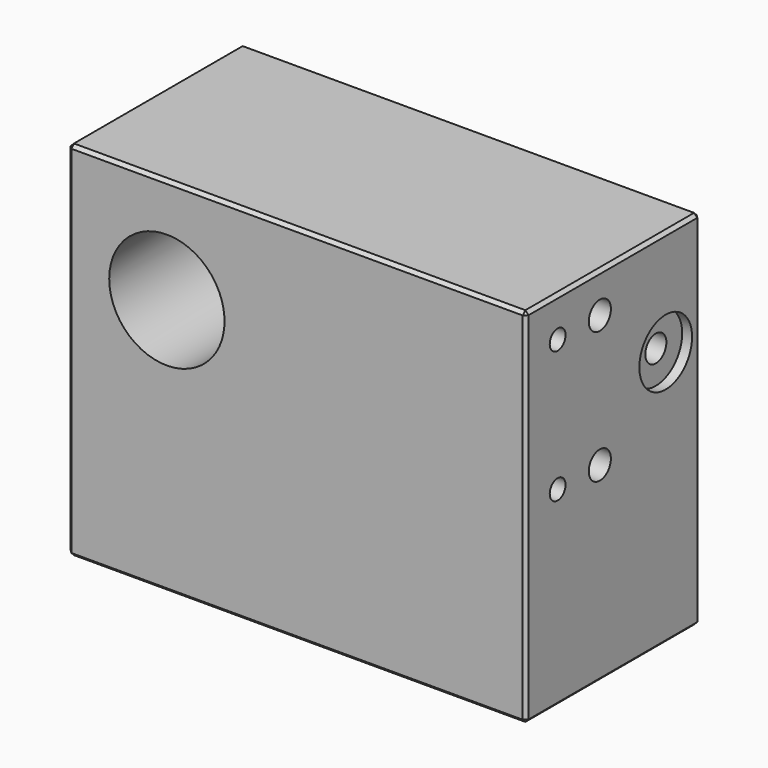
from build123d import *

# Parameters (mm, degrees)
F0_W           = 69.5
F0_H           = 55
F1_DEPTH       = 33
F2_SIZE        = 0.5
F4_D           = 17.5
F4_DEPTH       = 23
F4_TIP         = 5.2575304165
F5_D           = 15
F5_DEPTH       = 26.5
F5_TIP         = 4.5064546427
F8_D           = 4
F8_DEPTH       = 54.5
F8_CBORE_D     = 10
F8_CBORE_DEPTH = 1.5
F8_TIP         = 1.2017212381
F9_D           = 4.2
F9_DEPTH       = 15
F9_TIP         = 1.2618073
F10_D          = 3
F10_DEPTH      = 8
F10_TIP        = 0.9012909285
F11_D          = 3
F11_DEPTH      = 8
F11_TIP        = 0.9012909285
F12_D          = 4.2
F12_DEPTH      = 17
F12_TIP        = 1.2618073


with BuildPart() as f1:
    # F0 (on Front) → F1 (new body)
    with BuildSketch(Plane.XZ):
        with Locations((34.75, 27.5)):
            Rectangle(F0_W, F0_H)
    extrude(amount=-F1_DEPTH)

    # F2
    f2_edges = [f1.edges().sort_by_distance(p)[0] for p in [
        (0, 0, 27.5),
        (34.75, 0, 0),
        (69.5, 0, 27.5),
        (34.75, 0, 55),
        (0, 33, 27.5),
        (34.75, 33, 0),
        (69.5, 33, 27.5),
        (34.75, 33, 55),
        (69.5, 16.5, 55),
        (0, 16.5, 55),
        (0, 16.5, 0),
        (69.5, 16.5, 0),
    ]]
    chamfer(f2_edges, length=F2_SIZE)

    # F4
    with Locations(Plane.XZ):
        with Locations((15, 39)):
            Hole(F4_D / 2, depth=F4_DEPTH)
            with Locations((0, 0, -(F4_DEPTH + F4_TIP / 2))):  # 118° drill point
                Cone(0, F4_D / 2, F4_TIP, mode=Mode.SUBTRACT)

    # F5
    with Locations(Plane.XZ):
        with Locations((15, 39)):
            Hole(F5_D / 2, depth=F5_DEPTH)
            with Locations((0, 0, -(F5_DEPTH + F5_TIP / 2))):  # 118° drill point
                Cone(0, F5_D / 2, F5_TIP, mode=Mode.SUBTRACT)

    # F8
    with Locations(Plane.YZ.offset(69.5)):
        with Locations((26.5, 39)):
            CounterBoreHole(F8_D / 2, F8_CBORE_D / 2, F8_CBORE_DEPTH, depth=F8_DEPTH)
            with Locations((0, 0, -(F8_DEPTH + F8_TIP / 2))):  # 118° drill point
                Cone(0, F8_D / 2, F8_TIP, mode=Mode.SUBTRACT)

    # F9
    with Locations(Plane.YZ.offset(69.5)):
        with Locations((14, 49), (14, 29)):
            Hole(F9_D / 2, depth=F9_DEPTH)
            with Locations((0, 0, -(F9_DEPTH + F9_TIP / 2))):  # 118° drill point
                Cone(0, F9_D / 2, F9_TIP, mode=Mode.SUBTRACT)

    # F10
    with Locations(Plane.YZ.offset(69.5)):
        with Locations((6, 49), (6, 29)):
            Hole(F10_D / 2, depth=F10_DEPTH)
            with Locations((0, 0, -(F10_DEPTH + F10_TIP / 2))):  # 118° drill point
                Cone(0, F10_D / 2, F10_TIP, mode=Mode.SUBTRACT)

    # F11
    with Locations(Plane(origin=(0, 0, 0), x_dir=(1, 0, 0), z_dir=(0, 0, -1))):
        with Locations((9, -24), (60, -6)):
            Hole(F11_D / 2, depth=F11_DEPTH)
            with Locations((0, 0, -(F11_DEPTH + F11_TIP / 2))):  # 118° drill point
                Cone(0, F11_D / 2, F11_TIP, mode=Mode.SUBTRACT)

    # F12
    with Locations(Plane(origin=(0, 0, 0), x_dir=(1, 0, 0), z_dir=(0, 0, -1))):
        with Locations((29, -16.5), (59, -16.5)):
            Hole(F12_D / 2, depth=F12_DEPTH)
            with Locations((0, 0, -(F12_DEPTH + F12_TIP / 2))):  # 118° drill point
                Cone(0, F12_D / 2, F12_TIP, mode=Mode.SUBTRACT)


solid = f1.part
